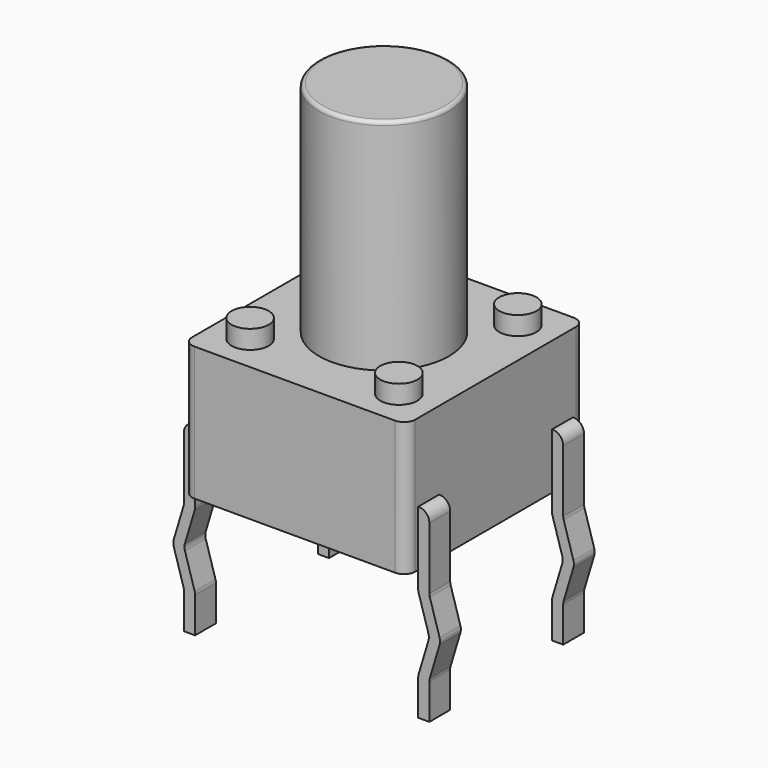
from build123d import *

# Parameters (mm, degrees)
SKETCH001_W  = 6
SKETCH001_H  = 6
PAD001_DEPTH = 0.1
FILLET001_R  = 0.3
PAD008_DEPTH = 0.7
FILLET003_R  = 0.29
PAD009_DEPTH = 0.7
FILLET004_R  = 0.29
PAD010_DEPTH = 0.7
FILLET005_R  = 0.29
SKETCH_W     = 6
SKETCH_H     = 6
PAD_DEPTH    = 3.5
FILLET_R     = 0.3
SKETCH004_R  = 0.5
PAD003_DEPTH = 0.6
SKETCH003_R  = 0.5
PAD004_DEPTH = 0.6
SKETCH005_R  = 0.5
PAD002_DEPTH = 0.6
SKETCH002_R  = 0.5
PAD005_DEPTH = 0.6
SKETCH006_R  = 1.75
PAD006_DEPTH = 6
FILLET006_R  = 0.1
PAD007_DEPTH = 0.7
FILLET002_R  = 0.29


with BuildPart() as fillet001:
    # Sketch001 → Pad001 (new body)
    with BuildSketch(Plane.XY.offset(3.5)):
        with Locations((3.15, -2.25)):
            Rectangle(SKETCH001_W, SKETCH001_H)
    extrude(amount=PAD001_DEPTH)

    # Fillet001
    fillet001_edges = [fillet001.edges().sort_by_distance(p)[0] for p in [
        (6.15, -5.25, 3.55),
        (0.15, -5.25, 3.55),
        (6.15, 0.75, 3.55),
        (0.15, 0.75, 3.55),
    ]]
    fillet(fillet001_edges, radius=FILLET001_R)


with BuildPart() as fillet003:
    # Sketch008 → Pad008 (new body)
    with BuildSketch(Plane.XZ.offset(0.35)):
        Polygon((-0.15, 1.5), (0.15, 1.5), (0.15, -0.5), (-0.15, -1.5), (0.15, -2.5), (0.15, -3.5), (-0.15, -3.5), (-0.15, -2.5), (-0.45, -1.5), (-0.15, -0.5), align=None)
    extrude(amount=-PAD008_DEPTH)

    # Fillet003
    fillet003_edges = [fillet003.edges().sort_by_distance(p)[0] for p in [
        (-0.15, 0, -2.5),
        (-0.15, 0, -0.5),
        (-0.45, 0, -1.5),
        (-0.15, 0, 1.5),
        (0.15, 0, -0.5),
        (-0.15, 0, -1.5),
        (0.15, 0, -2.5),
    ]]
    fillet(fillet003_edges, radius=FILLET003_R)


with BuildPart() as fillet004:
    # Sketch009 → Pad009 (new body)
    with BuildSketch(Plane.XZ.offset(4.85)):
        Polygon((6.45, 1.5), (6.15, 1.5), (6.15, -0.5), (6.45, -1.5), (6.15, -2.5), (6.15, -3.5), (6.45, -3.5), (6.45, -2.5), (6.75, -1.5), (6.45, -0.5), align=None)
    extrude(amount=-PAD009_DEPTH)

    # Fillet004
    fillet004_edges = [fillet004.edges().sort_by_distance(p)[0] for p in [
        (6.45, -4.5, -2.5),
        (6.45, -4.5, -0.5),
        (6.75, -4.5, -1.5),
        (6.45, -4.5, 1.5),
        (6.15, -4.5, -0.5),
        (6.45, -4.5, -1.5),
        (6.15, -4.5, -2.5),
    ]]
    fillet(fillet004_edges, radius=FILLET004_R)


with BuildPart() as fillet005:
    # Sketch010 → Pad010 (new body)
    with BuildSketch(Plane.XZ.offset(0.35)):
        Polygon((6.45, 1.5), (6.15, 1.5), (6.15, -0.5), (6.45, -1.5), (6.15, -2.5), (6.15, -3.5), (6.45, -3.5), (6.45, -2.5), (6.75, -1.5), (6.45, -0.5), align=None)
    extrude(amount=-PAD010_DEPTH)

    # Fillet005
    fillet005_edges = [fillet005.edges().sort_by_distance(p)[0] for p in [
        (6.45, 0, -2.5),
        (6.45, 0, -0.5),
        (6.75, 0, -1.5),
        (6.45, 0, 1.5),
        (6.15, 0, -0.5),
        (6.45, 0, -1.5),
        (6.15, 0, -2.5),
    ]]
    fillet(fillet005_edges, radius=FILLET005_R)


with BuildPart() as fillet_body:
    # Sketch → Pad (new body)
    with BuildSketch(Plane.XY):
        with Locations((3.15, -2.25)):
            Rectangle(SKETCH_W, SKETCH_H)
    extrude(amount=PAD_DEPTH)

    # Fillet
    fillet_edges = [fillet_body.edges().sort_by_distance(p)[0] for p in [
        (6.15, 0.75, 1.75),
        (6.15, -5.25, 1.75),
        (0.15, -5.25, 1.75),
        (0.15, 0.75, 1.75),
    ]]
    fillet(fillet_edges, radius=FILLET_R)


with BuildPart() as pad003:
    # Pad003 base: copy of Fillet body
    add(fillet_body.part)

    # Sketch004 → Pad003 (new body)
    with BuildSketch(Plane.XY.offset(3.5)):
        with Locations((5.15, -0.25)):
            Circle(SKETCH004_R)
    extrude(amount=PAD003_DEPTH)


with BuildPart() as pad004:
    # Pad004 base: copy of Fillet body
    add(fillet_body.part)

    # Sketch003 → Pad004 (new body)
    with BuildSketch(Plane.XY.offset(3.5)):
        with Locations((5.15, -4.25)):
            Circle(SKETCH003_R)
    extrude(amount=PAD004_DEPTH)


with BuildPart() as pad002:
    # Pad002 base: copy of Fillet body
    add(fillet_body.part)

    # Sketch005 → Pad002 (new body)
    with BuildSketch(Plane.XY.offset(3.5)):
        with Locations((1.15, -0.25)):
            Circle(SKETCH005_R)
    extrude(amount=PAD002_DEPTH)


with BuildPart() as pad005:
    # Pad005 base: copy of Fillet body
    add(fillet_body.part)

    # Sketch002 → Pad005 (new body)
    with BuildSketch(Plane.XY.offset(3.5)):
        with Locations((1.15, -4.25)):
            Circle(SKETCH002_R)
    extrude(amount=PAD005_DEPTH)


with BuildPart() as fillet006:
    # Pad006 base: copy of Fillet body
    add(fillet_body.part)

    # Sketch006 → Pad006 (new body)
    with BuildSketch(Plane.XY.offset(3.5)):
        with Locations((3.15, -2.25)):
            Circle(SKETCH006_R)
    extrude(amount=PAD006_DEPTH)

    # Fillet006
    fillet006_edges = [fillet006.edges().sort_by_distance(p)[0] for p in [
        (1.4, -2.25, 9.5),
    ]]
    fillet(fillet006_edges, radius=FILLET006_R)


with BuildPart() as obj1:
    # Sketch007 → Pad007 (new body)
    with BuildSketch(Plane.XZ.offset(4.85)):
        Polygon((-0.15, 1.5), (0.15, 1.5), (0.15, -0.5), (-0.15, -1.5), (0.15, -2.5), (0.15, -3.5), (-0.15, -3.5), (-0.15, -2.5), (-0.45, -1.5), (-0.15, -0.5), align=None)
    extrude(amount=-PAD007_DEPTH)

    # Fillet002
    fillet002_edges = [obj1.edges().sort_by_distance(p)[0] for p in [
        (-0.15, -4.5, -2.5),
        (-0.15, -4.5, -0.5),
        (-0.45, -4.5, -1.5),
        (-0.15, -4.5, 1.5),
        (0.15, -4.5, -0.5),
        (-0.15, -4.5, -1.5),
        (0.15, -4.5, -2.5),
    ]]
    fillet(fillet002_edges, radius=FILLET002_R)

    add(fillet001.part)
    add(fillet003.part)
    add(fillet004.part)
    add(fillet005.part)
    add(pad003.part)
    add(pad004.part)
    add(pad002.part)
    add(pad005.part)
    add(fillet006.part)


solid = obj1.part
